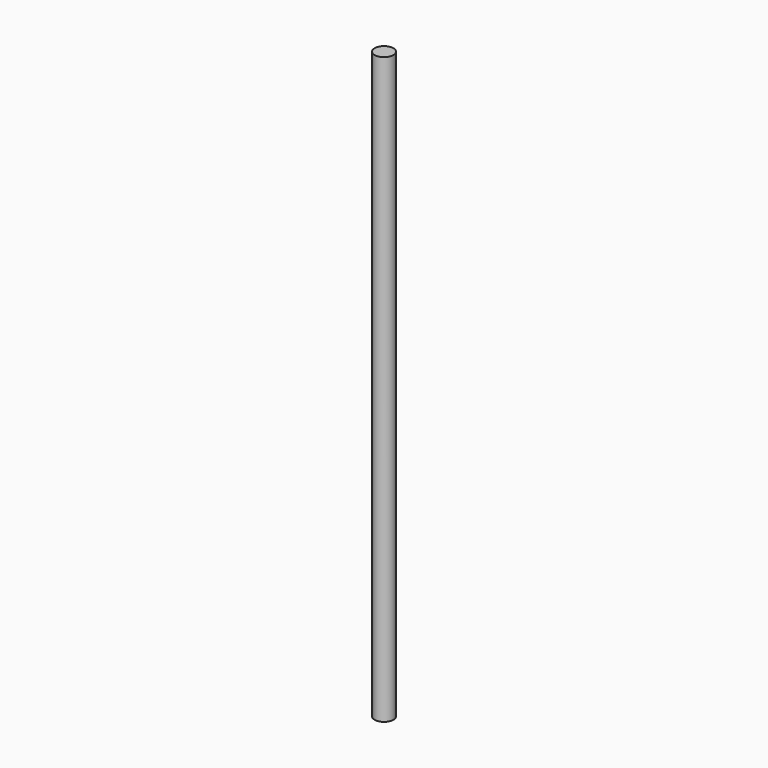
from build123d import *

# Parameters (mm, degrees)
SKETCH_R  = 4
PAD_DEPTH = 250


with BuildPart() as part:
    # Sketch → Pad (new body)
    with BuildSketch(Plane.XY):
        Circle(SKETCH_R)
    extrude(amount=PAD_DEPTH)


solid = part.part
